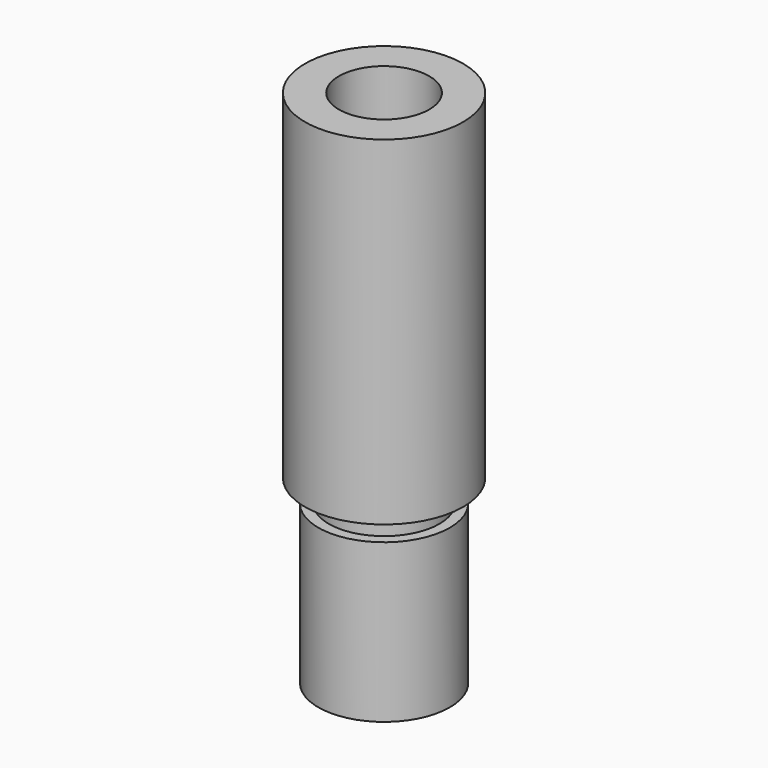
from build123d import *

# Parameters (mm, degrees)
F0_R     = 3.5
F0_R_2   = 2
F1_DEPTH = 15
F2_R     = 2.45
F2_R_2   = 2
F3_DEPTH = 1
F4_R     = 2.91
F4_R_2   = 2
F5_DEPTH = 7


with BuildPart() as f1:
    # F0 (on Top) → F1 (new body)
    with BuildSketch(Plane.XY):
        Circle(F0_R)
        Circle(F0_R_2, mode=Mode.SUBTRACT)
    extrude(amount=F1_DEPTH)

    # F2 (on Top) → F3 (join)
    with BuildSketch(Plane.XY):
        Circle(F2_R)
        Circle(F2_R_2, mode=Mode.SUBTRACT)
    extrude(amount=-F3_DEPTH)

    # F4 (on face) → F5 (join)
    with BuildSketch(Plane(origin=(0, 0, -1), x_dir=(1, 0, 0), z_dir=(0, 0, -1))):
        Circle(F4_R)
        Circle(F4_R_2, mode=Mode.SUBTRACT)
    extrude(amount=F5_DEPTH)


solid = f1.part
